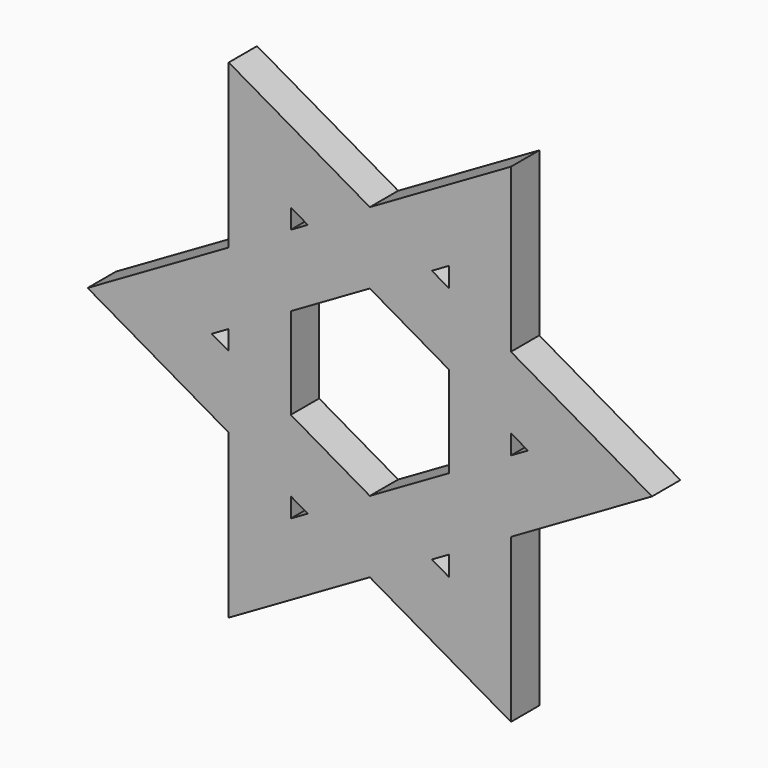
from build123d import *

# Parameters (mm, degrees)
F1_DEPTH = 5.08


with BuildPart() as f1:
    # F0 (on Front) → F1 (new body)
    with BuildSketch(Plane.XZ):
        Polygon((143.185273, -21.642312), (143.185273, 1.702374), (122.968182, -9.969969), (102.751091, 1.702374), (102.751091, -21.642312), (82.534, -33.314655), (102.751091, -44.986997), (102.751091, -68.331683), (122.968182, -56.65934), (143.185273, -68.331683), (143.185273, -44.986997), (163.402364, -33.314655), align=None)
        Polygon((111.641093, -50.119643), (114.07818, -51.526695), (111.641093, -52.933748), align=None, mode=Mode.SUBTRACT)
        Polygon((134.295271, -52.933748), (131.858184, -51.526695), (134.295271, -50.119643), align=None, mode=Mode.SUBTRACT)
        Polygon((102.751091, -31.907602), (102.751091, -34.721707), (100.314004, -33.314655), align=None, mode=Mode.SUBTRACT)
        Polygon((122.968182, -46.39405), (111.641093, -39.854352), (111.641093, -26.774957), (122.968182, -20.235259), (134.295271, -26.774957), (134.295271, -39.854352), align=None, mode=Mode.SUBTRACT)
        Polygon((114.07818, -15.102614), (111.641093, -16.509667), (111.641093, -13.695561), align=None, mode=Mode.SUBTRACT)
        Polygon((143.185273, -34.721707), (143.185273, -31.907602), (145.62236, -33.314655), align=None, mode=Mode.SUBTRACT)
        Polygon((134.295271, -16.509667), (131.858184, -15.102614), (134.295271, -13.695561), align=None, mode=Mode.SUBTRACT)
    extrude(amount=F1_DEPTH)


solid = f1.part
